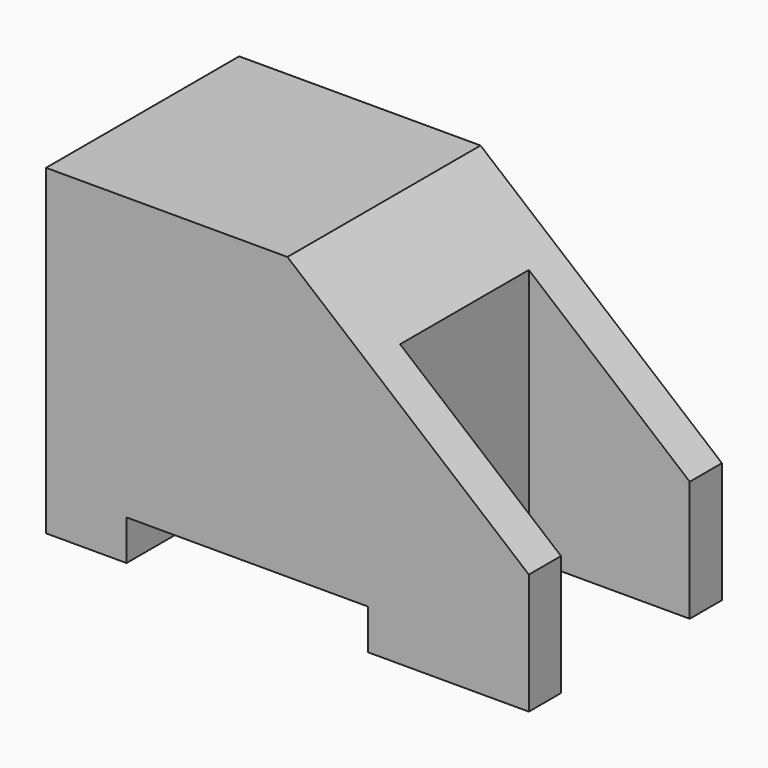
from build123d import *

# Parameters (mm, degrees)
F0_W     = 30
F0_H     = 20
F1_DEPTH = 15
F2_W     = 15
F2_H     = 2.5
F3_DEPTH = 15.001
F4_W     = 10
F4_H     = 10
F5_DEPTH = 20.001


with BuildPart() as f1:
    # F0 (on Front) → F1 (new body)
    with BuildSketch(Plane.XZ):
        with Locations((15, 10)):
            Rectangle(F0_W, F0_H)
    extrude(amount=F1_DEPTH)

    # F2 (on Front) → F3 (cut, through all)
    with BuildSketch(Plane.XZ):
        with Locations((12.5, 1.25)):
            Rectangle(F2_W, F2_H)
        Polygon((30, 20), (15, 20), (30, 7.5), align=None)
    extrude(amount=F3_DEPTH, mode=Mode.SUBTRACT)

    # F4 (on Top) → F5 (cut, through all)
    with BuildSketch(Plane.XY):
        with Locations((25, -7.5)):
            Rectangle(F4_W, F4_H)
    extrude(amount=F5_DEPTH, mode=Mode.SUBTRACT)


solid = f1.part
